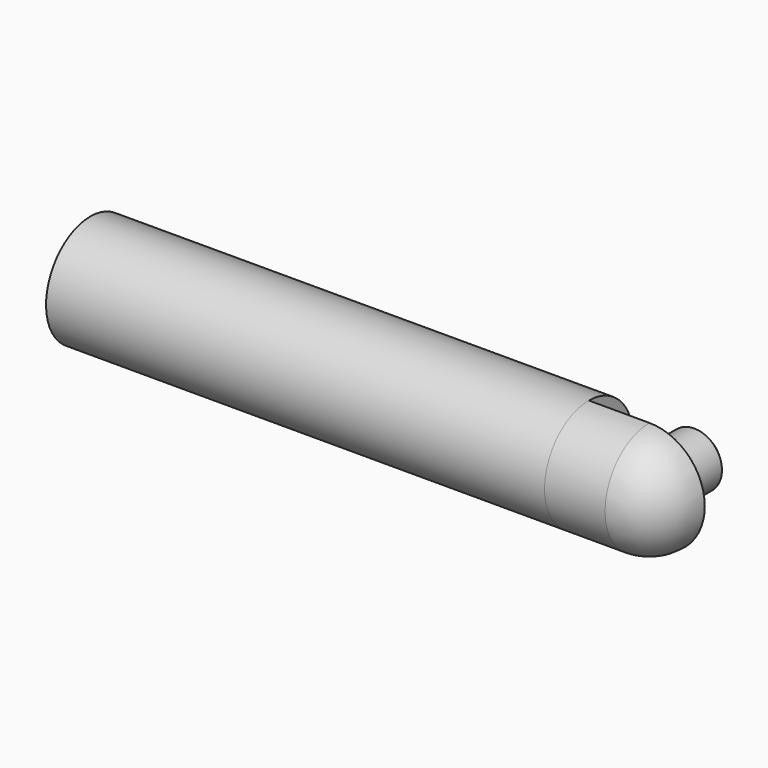
from build123d import *

# Parameters (mm, degrees)
F0_W     = 171.45
F0_H     = 19.05
F3_DEPTH = 20.828
F5_ANGLE = 90
F6_R     = 9.525
F7_DEPTH = 20.828
F8_SIZE  = 1.524


with BuildPart() as f1:
    # F0 (on Front) → F1 (revolve)
    with BuildSketch(Plane.XZ):
        Rectangle(F0_W, F0_H)
    revolve(axis=Axis((0, 0, -9.525), (1, 0, 0)))

    # F2 (on face) → F3 (join)
    with BuildSketch(Plane.YZ.offset(85.725)):
        with BuildLine():
            Line((0, -28.575), (0, 9.525))
            ThreePointArc((0, 9.525), (-19.05, -9.525), (0, -28.575))
        make_face()
    extrude(amount=F3_DEPTH)

    # F4 (on face) → F5 (revolve)
    with BuildSketch(Plane.YZ.offset(106.553)):
        with BuildLine():
            ThreePointArc((0, 9.525), (-19.05, -9.525), (0, -28.575))
            Line((0, -28.575), (0, 9.525))
        make_face()
    revolve(axis=Axis((106.553, 0, -9.525), (0, 0, 1)), revolution_arc=F5_ANGLE)

    # F6 (on face) → F7 (join)
    with BuildSketch(Plane(origin=(0, 0, 0), x_dir=(-1, 0, 0), z_dir=(0, 1, 0))):
        with Locations((-106.553, -9.525)):
            Circle(F6_R)
    extrude(amount=F7_DEPTH)

    # F8
    f8_edges = [f1.edges().sort_by_distance(p)[0] for p in [
        (116.078, 20.828, -9.525),
    ]]
    chamfer(f8_edges, length=F8_SIZE)


solid = f1.part
